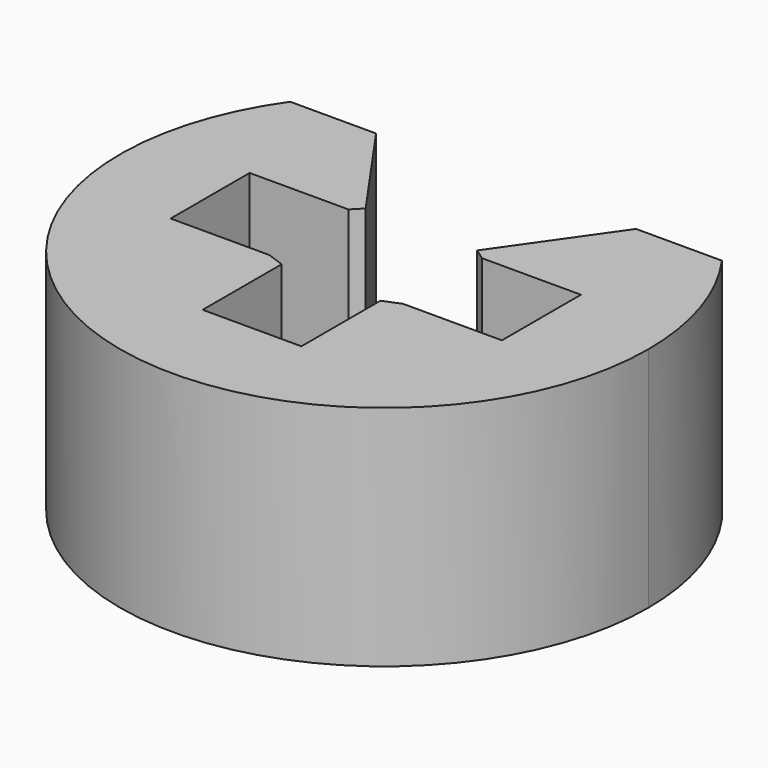
from build123d import *

# Parameters (mm, degrees)
F1_DEPTH = 5.3


with BuildPart() as f1:
    # F0 (on Top) → F1 (new body)
    with BuildSketch(Plane.XY):
        with BuildLine():
            ThreePointArc((-5.026474, 3.543595), (-1.858721, -5.862393), (6.15, 0))
            ThreePointArc((6.15, 0), (5.859092, 1.869103), (5.013888, 3.56138))
            Line((5.013888, 3.56138), (3.013888, 3.56138))
            Line((3.013888, 3.56138), (1.287191, 1.095401))
            Line((1.287191, 1.095401), (1.55, 0.91138))
            Line((1.55, 0.91138), (3.85, 0.91138))
            Line((3.85, 0.91138), (3.85, -1.38862))
            Line((3.85, -1.38862), (1.55, -1.38862))
            Line((1.55, -1.38862), (1.15, -1.55))
            Line((1.15, -1.55), (1.15, -3.85))
            Line((1.15, -3.85), (-1.15, -3.85))
            Line((-1.15, -3.85), (-1.15, -1.55))
            Line((-1.15, -1.55), (-1.55, -1.406405))
            Line((-1.55, -1.406405), (-3.85, -1.406405))
            Line((-3.85, -1.406405), (-3.85, 0.893595))
            Line((-3.85, 0.893595), (-1.55, 0.893595))
            Line((-1.55, 0.893595), (-1.328561, 1.118723))
            Line((-1.328561, 1.118723), (-3.026474, 3.543595))
            Line((-3.026474, 3.543595), (-5.026474, 3.543595))
        make_face()
    extrude(amount=F1_DEPTH)


solid = f1.part
